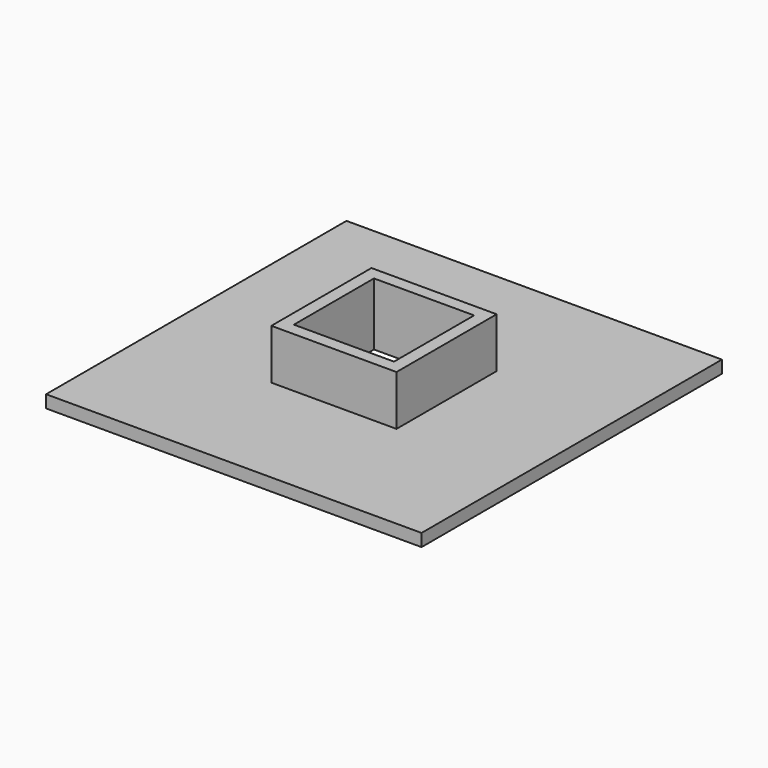
from build123d import *

# Parameters (mm, degrees)
BOX002_W     = 16
BOX002_H     = 16
BOX002_DEPTH = 10
BOX003_W     = 20
BOX003_H     = 20
BOX003_DEPTH = 10
BOX001_W     = 16
BOX001_H     = 16
BOX001_DEPTH = 3
BOX_W        = 60
BOX_H        = 60
BOX_DEPTH    = 2


with BuildPart() as cube002:
    # Box002 → Box002 (new body)
    with BuildSketch(Plane(origin=(-8, -8, 0), x_dir=(1, 0, 0), z_dir=(0, 0, 1))):
        with Locations((8, 8)):
            Rectangle(BOX002_W, BOX002_H)
    extrude(amount=BOX002_DEPTH)


with BuildPart() as cut001:
    # Box003 → Box003 (new body)
    with BuildSketch(Plane(origin=(-10, -10, 0), x_dir=(1, 0, 0), z_dir=(0, 0, 1))):
        with Locations((10, 10)):
            Rectangle(BOX003_W, BOX003_H)
    extrude(amount=BOX003_DEPTH)

    # Cut001: cut Cube002
    add(cube002.part, mode=Mode.SUBTRACT)


with BuildPart() as cube001:
    # Box001 → Box001 (new body)
    with BuildSketch(Plane(origin=(-8, -8, 0), x_dir=(1, 0, 0), z_dir=(0, 0, 1))):
        with Locations((8, 8)):
            Rectangle(BOX001_W, BOX001_H)
    extrude(amount=BOX001_DEPTH)


with BuildPart() as fusion:
    # Box → Box (new body)
    with BuildSketch(Plane(origin=(-30, -30, 0), x_dir=(1, 0, 0), z_dir=(0, 0, 1))):
        with Locations((30, 30)):
            Rectangle(BOX_W, BOX_H)
    extrude(amount=BOX_DEPTH)

    # Cut: cut Cube001
    add(cube001.part, mode=Mode.SUBTRACT)

    # Fusion: union Cut001
    add(cut001.part)


solid = fusion.part
